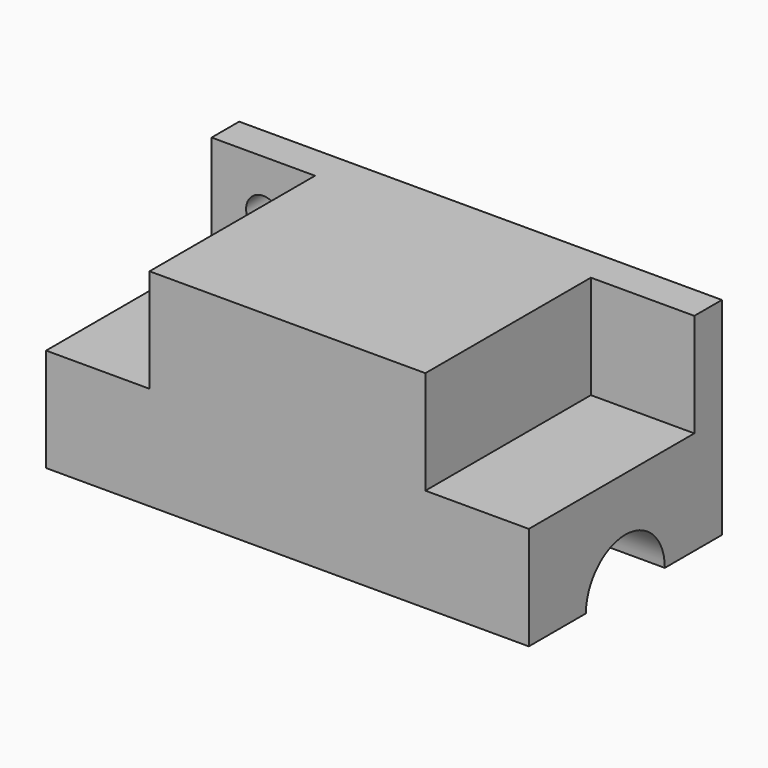
from build123d import *

# Parameters (mm, degrees)
F1_DEPTH = 70
F2_R     = 14.3018330781
F3_DEPTH = 87.7
F4_W     = 40
F4_H     = 30
F5_DEPTH = 60
F7_R     = 5
F8_DEPTH = 86.3


with BuildPart() as f1:
    # F0 (on Right) → F1 (new body, symmetric)
    with BuildSketch(Plane.YZ):
        Polygon((0, 30), (0, 0), (-60, 0), (-60, -30), (10, -30), (10, 30), align=None)
    extrude(amount=F1_DEPTH, both=True)

    # F2 (on Right) → F3 (cut, symmetric)
    with BuildSketch(Plane.YZ):
        with Locations((-25, -30)):
            Circle(F2_R)
    extrude(amount=F3_DEPTH, both=True, mode=Mode.SUBTRACT)

    # F4 (on Front) → F5 (join)
    with BuildSketch(Plane.XZ):
        with Locations((20, 15)):
            Rectangle(F4_W, F4_H)
    extrude(amount=F5_DEPTH)

    # F6: F1 across plane


with BuildPart() as f1_1:
    add(f1.part)
    add(f1.part.mirror(Plane.YZ))

    # F7 (on face) → F8 (cut)
    with BuildSketch(Plane.XZ):
        with Locations((-55, 15)):
            Circle(F7_R)
    extrude(amount=-F8_DEPTH, mode=Mode.SUBTRACT)


solid = f1_1.part
